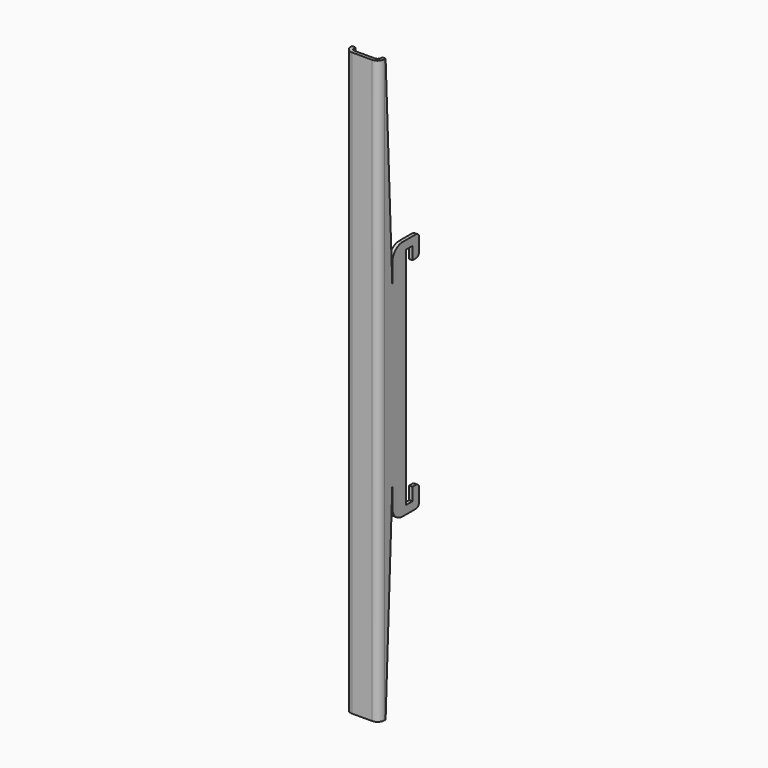
from build123d import *

# Parameters (mm, degrees)
F1_DEPTH      = 12.7
F2_R          = 5.08
F4_DEPTH      = 220.001
F4_DEPTH_BACK = 220.001


with BuildPart() as f1:
    # F0 (on Right) → F1 (new body, symmetric)
    with BuildSketch(Plane.YZ):
        with BuildLine():
            Line((-25.4, 220), (-31.75, 220))
            Line((-31.75, 220), (-31.75, -220))
            Line((-31.75, -220), (-25.4, -220))
            Line((-25.4, -220), (-19.05, -65.95))
            Line((-19.05, -65.95), (-19.05, -81.698))
            ThreePointArc((-19.05, -81.698), (-16.222995, -88.522995), (-9.398, -91.35))
            Line((-9.398, -91.35), (3.048, -91.35))
            ThreePointArc((3.048, -91.35), (5.382867, -90.382867), (6.35, -88.048))
            Line((6.35, -88.048), (6.35, -78.65))
            ThreePointArc((6.35, -78.65), (5.382867, -76.315133), (3.048, -75.348))
            Line((3.048, -75.348), (0, -75.348))
            Line((0, -75.348), (0, -85))
            Line((0, -85), (-6.35, -85))
            Line((-6.35, -85), (-6.35, 85))
            Line((-6.35, 85), (0, 85))
            Line((0, 85), (0, 75.348))
            Line((0, 75.348), (3.048, 75.348))
            ThreePointArc((3.048, 75.348), (5.382867, 76.315133), (6.35, 78.65))
            Line((6.35, 78.65), (6.35, 88.048))
            ThreePointArc((6.35, 88.048), (5.382867, 90.382867), (3.048, 91.35))
            Line((3.048, 91.35), (-9.398, 91.35))
            ThreePointArc((-9.398, 91.35), (-16.222995, 88.522995), (-19.05, 81.698))
            Line((-19.05, 81.698), (-19.05, 65.95))
            Line((-19.05, 65.95), (-25.4, 220))
        make_face()
    extrude(amount=F1_DEPTH, both=True)

    # F2
    f2_edges = [f1.edges().sort_by_distance(p)[0] for p in [
        (12.7, -31.75, 0),
        (-12.7, -31.75, 0),
    ]]
    fillet(f2_edges, radius=F2_R)

    # F3 (on Top) → F4 (cut, two sides)
    with BuildSketch(Plane.XY) as f4_sk:
        with BuildLine():
            Line((10.16, -26.67), (10.16, 6.35))
            Line((10.16, 6.35), (-10.16, 6.35))
            Line((-10.16, 6.35), (-10.16, -26.67))
            ThreePointArc((-10.16, -26.67), (-9.416051, -28.466051), (-7.62, -29.21))
            Line((-7.62, -29.21), (7.62, -29.21))
            ThreePointArc((7.62, -29.21), (9.416051, -28.466051), (10.16, -26.67))
        make_face()
    extrude(amount=F4_DEPTH, mode=Mode.SUBTRACT)
    extrude(f4_sk.sketch, amount=-F4_DEPTH_BACK, mode=Mode.SUBTRACT)


solid = f1.part
